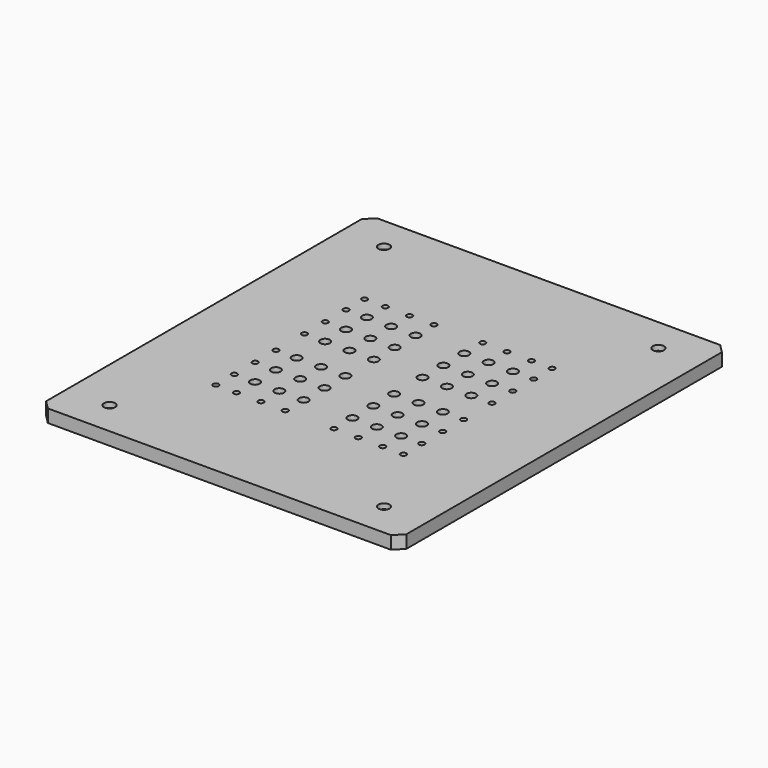
from build123d import *

# Parameters (mm, degrees)
F0_W           = 210
F0_H           = 240
F1_DEPTH       = 7.5
F3_D           = 3.15
F3_CBORE_D     = 6.5
F3_CBORE_DEPTH = 3
F5_D           = 4.2
F5_DEPTH       = 5.5
F5_CBORE_D     = 10
F5_CBORE_DEPTH = 0.5
F5_TIP         = 1.2618073
F7_D           = 5.5
F9_D           = 3.3
F10_R          = 1.65
F10_R_2        = 2.75
F11_DEPTH      = 0.5
F12_SIZE       = 5
F13_R          = 1.5


with BuildPart() as f1:
    # F0 (on Top) → F1 (new body)
    with BuildSketch(Plane.XY):
        Rectangle(F0_W, F0_H)
    extrude(amount=F1_DEPTH)

    # F3 (through all)
    with Locations(Plane.XY.offset(7.5)):
        with Locations((-80, 100), (80, 100), (-80, -100), (80, -100)):
            CounterBoreHole(F3_D / 2, F3_CBORE_D / 2, F3_CBORE_DEPTH)

    # F5
    with Locations(Plane(origin=(0, 0, 0), x_dir=(1, 0, 0), z_dir=(0, 0, -1))):
        with Locations((-67.5, -103), (67.5, 103)):
            CounterBoreHole(F5_D / 2, F5_CBORE_D / 2, F5_CBORE_DEPTH, depth=F5_DEPTH)
            with Locations((0, 0, -(F5_DEPTH + F5_TIP / 2))):  # 118° drill point
                Cone(0, F5_D / 2, F5_TIP, mode=Mode.SUBTRACT)

    # F7 (through all)
    with Locations(Plane.XY.offset(7.5)):
        with Locations((-42.6, 40.75), (-28.4, 40.75), (-14.2, 40.75), (14.2, 40.75), (28.4, 40.75), (42.6, 40.75), (-42.6, 25.55), (-28.4, 25.55), (-14.2, 25.55), (14.2, 25.55), (28.4, 25.55), (42.6, 25.55), (42.6, 10.35), (28.4, 10.35), (14.2, 10.35), (-14.2, 10.35), (-28.4, 10.35), (-42.6, 10.35), (-42.6, -10.35), (-28.4, -10.35), (-14.2, -10.35), (14.2, -10.35), (28.4, -10.35), (42.6, -10.35), (42.6, -25.55), (28.4, -25.55), (14.2, -25.55), (-14.2, -25.55), (-28.4, -25.55), (-42.6, -25.55), (-42.6, -40.75), (-28.4, -40.75), (-14.2, -40.75), (14.2, -40.75), (28.4, -40.75), (42.6, -40.75)):
            Hole(F7_D / 2)

    # F9 (through all)
    with Locations(Plane.XY.offset(7.5)):
        with Locations((-54.65, 54.2), (-42.6, 54.2), (-28.4, 54.2), (-14.2, 54.2), (14.2, 54.2), (28.4, 54.2), (42.6, 54.2), (54.65, 54.2), (54.65, 40.75), (54.65, 25.55), (54.65, 10.35), (54.65, -10.35), (54.65, -25.55), (54.65, -40.75), (54.65, -54.2), (42.6, -54.2), (28.4, -54.2), (14.2, -54.2), (-14.2, -54.2), (-28.4, -54.2), (-42.6, -54.2), (-54.65, -54.2), (-54.65, -40.75), (-54.65, -25.55), (-54.65, -10.35), (-54.65, 10.35), (-54.65, 25.55), (-54.65, 40.75)):
            Hole(F9_D / 2)

    # F10 (on face) → F11 (cut)
    with BuildSketch(Plane(origin=(0, 0, 0), x_dir=(1, 0, 0), z_dir=(0, 0, -1))):
        with BuildLine():
            Line((7.5, -57.7), (56.625, -57.7))
            ThreePointArc((56.625, -57.7), (57.6856601718, -57.2606601718), (58.125, -56.2))
            Line((58.125, -56.2), (58.125, -5))
            Line((58.125, -5), (53.125, -5))
            Line((53.125, -5), (53.125, 5))
            Line((53.125, 5), (58.125, 5))
            Line((58.125, 5), (58.125, 56.2))
            ThreePointArc((58.125, 56.2), (57.6856601718, 57.2606601718), (56.625, 57.7))
            Line((56.625, 57.7), (7.5, 57.7))
            Line((7.5, 57.7), (7.5, 52.7))
            Line((7.5, 52.7), (-7.5, 52.7))
            Line((-7.5, 52.7), (-7.5, 57.7))
            Line((-7.5, 57.7), (-56.625, 57.7))
            ThreePointArc((-56.625, 57.7), (-57.6856601718, 57.2606601718), (-58.125, 56.2))
            Line((-58.125, 56.2), (-58.125, 5))
            Line((-58.125, 5), (-53.125, 5))
            Line((-53.125, 5), (-53.125, -5))
            Line((-53.125, -5), (-58.125, -5))
            Line((-58.125, -5), (-58.125, -56.2))
            ThreePointArc((-58.125, -56.2), (-57.6856601718, -57.2606601718), (-56.625, -57.7))
            Line((-56.625, -57.7), (-7.5, -57.7))
            Line((-7.5, -57.7), (-7.5, -52.7))
            Line((-7.5, -52.7), (7.5, -52.7))
            Line((7.5, -52.7), (7.5, -57.7))
        make_face()
        with Locations((-54.65, -54.2)):
            Circle(F10_R, mode=Mode.SUBTRACT)
        with Locations((-54.65, -40.75)):
            Circle(F10_R, mode=Mode.SUBTRACT)
        with Locations((-54.65, -25.55)):
            Circle(F10_R, mode=Mode.SUBTRACT)
        with Locations((-54.65, -10.35)):
            Circle(F10_R, mode=Mode.SUBTRACT)
        with Locations((-42.6, -54.2)):
            Circle(F10_R, mode=Mode.SUBTRACT)
        with Locations((-28.4, -54.2)):
            Circle(F10_R, mode=Mode.SUBTRACT)
        with Locations((-42.6, -40.75)):
            Circle(F10_R_2, mode=Mode.SUBTRACT)
        with Locations((-28.4, -40.75)):
            Circle(F10_R_2, mode=Mode.SUBTRACT)
        with Locations((-14.2, -54.2)):
            Circle(F10_R, mode=Mode.SUBTRACT)
        with Locations((-14.2, -40.75)):
            Circle(F10_R_2, mode=Mode.SUBTRACT)
        with Locations((-42.6, -25.55)):
            Circle(F10_R_2, mode=Mode.SUBTRACT)
        with Locations((-28.4, -25.55)):
            Circle(F10_R_2, mode=Mode.SUBTRACT)
        with Locations((-42.6, -10.35)):
            Circle(F10_R_2, mode=Mode.SUBTRACT)
        with Locations((-28.4, -10.35)):
            Circle(F10_R_2, mode=Mode.SUBTRACT)
        with Locations((-14.2, -25.55)):
            Circle(F10_R_2, mode=Mode.SUBTRACT)
        with Locations((-14.2, -10.35)):
            Circle(F10_R_2, mode=Mode.SUBTRACT)
        with Locations((14.2, -54.2)):
            Circle(F10_R, mode=Mode.SUBTRACT)
        with Locations((14.2, -40.75)):
            Circle(F10_R_2, mode=Mode.SUBTRACT)
        with Locations((28.4, -54.2)):
            Circle(F10_R, mode=Mode.SUBTRACT)
        with Locations((42.6, -54.2)):
            Circle(F10_R, mode=Mode.SUBTRACT)
        with Locations((28.4, -40.75)):
            Circle(F10_R_2, mode=Mode.SUBTRACT)
        with Locations((42.6, -40.75)):
            Circle(F10_R_2, mode=Mode.SUBTRACT)
        with Locations((14.2, -25.55)):
            Circle(F10_R_2, mode=Mode.SUBTRACT)
        with Locations((14.2, -10.35)):
            Circle(F10_R_2, mode=Mode.SUBTRACT)
        with Locations((28.4, -25.55)):
            Circle(F10_R_2, mode=Mode.SUBTRACT)
        with Locations((42.6, -25.55)):
            Circle(F10_R_2, mode=Mode.SUBTRACT)
        with Locations((28.4, -10.35)):
            Circle(F10_R_2, mode=Mode.SUBTRACT)
        with Locations((42.6, -10.35)):
            Circle(F10_R_2, mode=Mode.SUBTRACT)
        with Locations((54.65, -54.2)):
            Circle(F10_R, mode=Mode.SUBTRACT)
        with Locations((54.65, -40.75)):
            Circle(F10_R, mode=Mode.SUBTRACT)
        with Locations((54.65, -25.55)):
            Circle(F10_R, mode=Mode.SUBTRACT)
        with Locations((54.65, -10.35)):
            Circle(F10_R, mode=Mode.SUBTRACT)
        with Locations((-54.65, 10.35)):
            Circle(F10_R, mode=Mode.SUBTRACT)
        with Locations((-54.65, 25.55)):
            Circle(F10_R, mode=Mode.SUBTRACT)
        with Locations((-54.65, 40.75)):
            Circle(F10_R, mode=Mode.SUBTRACT)
        with Locations((-54.65, 54.2)):
            Circle(F10_R, mode=Mode.SUBTRACT)
        with Locations((-42.6, 10.35)):
            Circle(F10_R_2, mode=Mode.SUBTRACT)
        with Locations((-28.4, 10.35)):
            Circle(F10_R_2, mode=Mode.SUBTRACT)
        with Locations((-42.6, 25.55)):
            Circle(F10_R_2, mode=Mode.SUBTRACT)
        with Locations((-28.4, 25.55)):
            Circle(F10_R_2, mode=Mode.SUBTRACT)
        with Locations((-14.2, 10.35)):
            Circle(F10_R_2, mode=Mode.SUBTRACT)
        with Locations((-14.2, 25.55)):
            Circle(F10_R_2, mode=Mode.SUBTRACT)
        with Locations((-42.6, 40.75)):
            Circle(F10_R_2, mode=Mode.SUBTRACT)
        with Locations((-28.4, 40.75)):
            Circle(F10_R_2, mode=Mode.SUBTRACT)
        with Locations((-42.6, 54.2)):
            Circle(F10_R, mode=Mode.SUBTRACT)
        with Locations((-28.4, 54.2)):
            Circle(F10_R, mode=Mode.SUBTRACT)
        with Locations((-14.2, 40.75)):
            Circle(F10_R_2, mode=Mode.SUBTRACT)
        with Locations((-14.2, 54.2)):
            Circle(F10_R, mode=Mode.SUBTRACT)
        with Locations((14.2, 10.35)):
            Circle(F10_R_2, mode=Mode.SUBTRACT)
        with Locations((14.2, 25.55)):
            Circle(F10_R_2, mode=Mode.SUBTRACT)
        with Locations((28.4, 10.35)):
            Circle(F10_R_2, mode=Mode.SUBTRACT)
        with Locations((42.6, 10.35)):
            Circle(F10_R_2, mode=Mode.SUBTRACT)
        with Locations((28.4, 25.55)):
            Circle(F10_R_2, mode=Mode.SUBTRACT)
        with Locations((42.6, 25.55)):
            Circle(F10_R_2, mode=Mode.SUBTRACT)
        with Locations((14.2, 40.75)):
            Circle(F10_R_2, mode=Mode.SUBTRACT)
        with Locations((14.2, 54.2)):
            Circle(F10_R, mode=Mode.SUBTRACT)
        with Locations((28.4, 40.75)):
            Circle(F10_R_2, mode=Mode.SUBTRACT)
        with Locations((42.6, 40.75)):
            Circle(F10_R_2, mode=Mode.SUBTRACT)
        with Locations((28.4, 54.2)):
            Circle(F10_R, mode=Mode.SUBTRACT)
        with Locations((42.6, 54.2)):
            Circle(F10_R, mode=Mode.SUBTRACT)
        with Locations((54.65, 10.35)):
            Circle(F10_R, mode=Mode.SUBTRACT)
        with Locations((54.65, 25.55)):
            Circle(F10_R, mode=Mode.SUBTRACT)
        with Locations((54.65, 40.75)):
            Circle(F10_R, mode=Mode.SUBTRACT)
        with Locations((54.65, 54.2)):
            Circle(F10_R, mode=Mode.SUBTRACT)
    extrude(amount=-F11_DEPTH, mode=Mode.SUBTRACT)

    # F12
    f12_edges = [f1.edges().sort_by_distance(p)[0] for p in [
        (-105, 120, 3.75),
        (105, 120, 3.75),
        (-105, -120, 3.75),
        (105, -120, 3.75),
    ]]
    chamfer(f12_edges, length=F12_SIZE)

    # F13
    f13_edges = [f1.edges().sort_by_distance(p)[0] for p in [
        (7.5, 57.7, 0.25),
        (-7.5, 57.7, 0.25),
        (58.125, -5, 0.25),
        (58.125, 5, 0.25),
        (7.5, -57.7, 0.25),
        (-7.5, -57.7, 0.25),
        (-58.125, -5, 0.25),
        (-58.125, 5, 0.25),
    ]]
    fillet(f13_edges, radius=F13_R)


solid = f1.part
